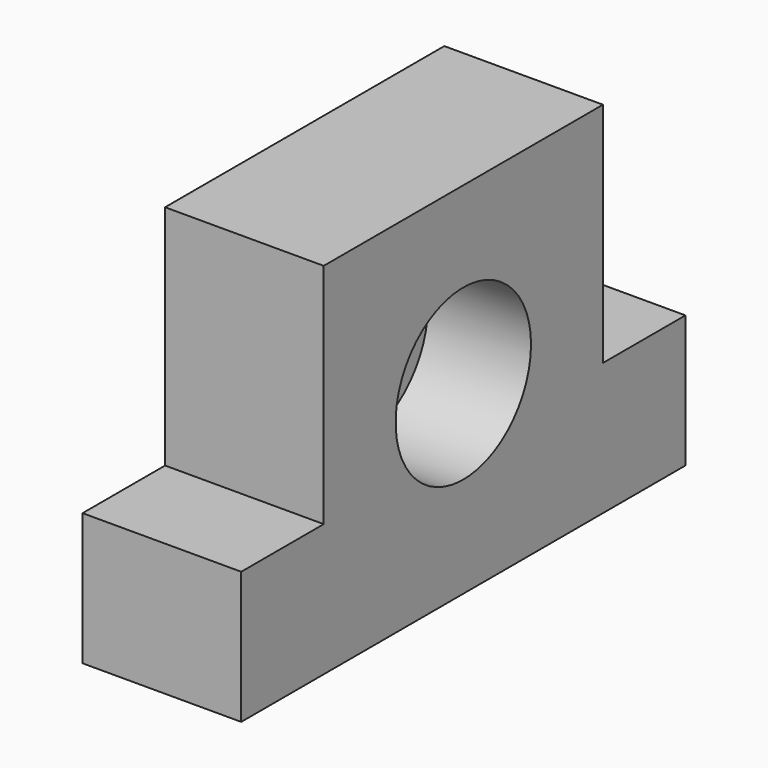
from build123d import *

# Parameters (mm, degrees)
F0_W      = 105
F0_H      = 68
F1_DEPTH  = 30
F2_W      = 19.5
F2_H      = 43
F3_DEPTH  = 30.001
F4_R      = 16
F4_R_2    = 11
F5_DEPTH  = 19.5
F5_FACE_R = 11
F6_DEPTH  = 30.001


with BuildPart() as f1:
    # F0 (on Right) → F1 (new body)
    with BuildSketch(Plane.YZ):
        Rectangle(F0_W, F0_H)
    extrude(amount=F1_DEPTH)

    # F2 (on face) → F3 (cut, through all)
    with BuildSketch(Plane.YZ.offset(30)):
        with Locations((-42.75, 12.5)):
            Rectangle(F2_W, F2_H)
        with Locations((42.75, 12.5)):
            Rectangle(F2_W, F2_H)
    extrude(amount=-F3_DEPTH, mode=Mode.SUBTRACT)

    # F4 (on face) → F5 (cut)
    with BuildSketch(Plane.YZ.offset(30)):
        with Locations((0, 1)):
            Circle(F4_R)
        with Locations((0, 1)):
            Circle(F4_R_2, mode=Mode.SUBTRACT)
    extrude(amount=-F5_DEPTH, mode=Mode.SUBTRACT)

    # F5_face (on face) → F6 (cut, through all)
    with BuildSketch(Plane(origin=(30, 0, 1), x_dir=(0, 1, 0), z_dir=(1, 0, 0))):
        Circle(F5_FACE_R)
    extrude(amount=-F6_DEPTH, mode=Mode.SUBTRACT)


solid = f1.part
